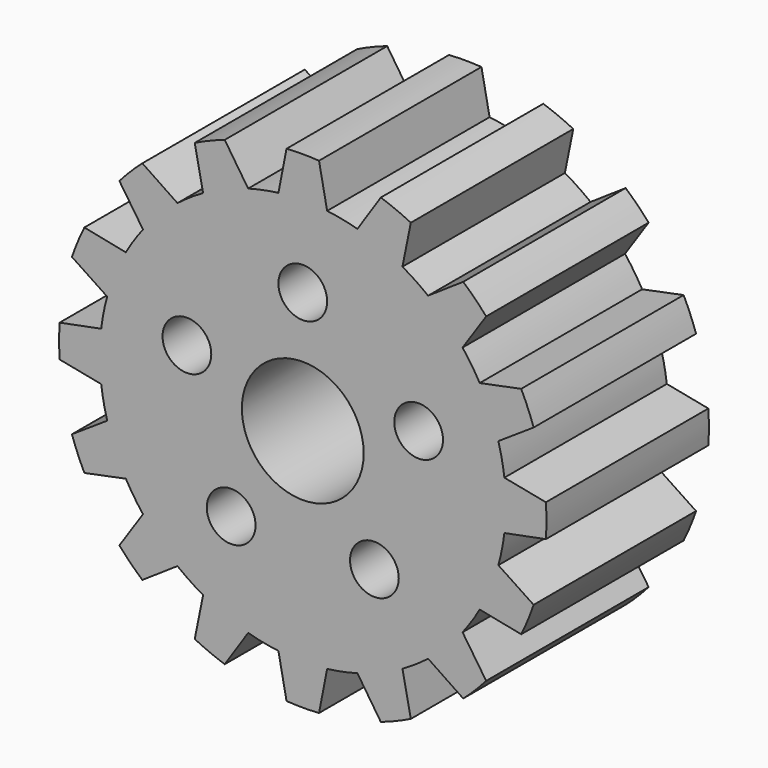
from build123d import *

# Parameters (mm, degrees)
F0_R     = 3
F0_R_2   = 7.5
F1_DEPTH = 25


with BuildPart() as f1:
    # F0 (on Front) → F1 (new body)
    with BuildSketch(Plane.XZ):
        with BuildLine():
            ThreePointArc((24.819347, -3), (24.954796, -1.502717), (25, 0))
            ThreePointArc((25, 0), (24.954796, 1.502717), (24.819347, 3))
            ThreePointArc((24.819347, 3), (24.519632, 4.877258), (24.078137, 6.726314))
            ThreePointArc((24.078137, 6.726314), (23.096988, 9.567086), (21.782037, 12.269592))
            ThreePointArc((21.782037, 12.269592), (20.78674, 13.889256), (19.671249, 15.428608))
            ThreePointArc((19.671249, 15.428608), (17.67767, 17.67767), (15.428608, 19.671249))
            ThreePointArc((15.428608, 19.671249), (13.889256, 20.78674), (12.269592, 21.782037))
            ThreePointArc((12.269592, 21.782037), (9.567086, 23.096988), (6.726314, 24.078137))
            ThreePointArc((6.726314, 24.078137), (4.877258, 24.519632), (3, 24.819347))
            ThreePointArc((3, 24.819347), (0, 25), (-3, 24.819347))
            ThreePointArc((-3, 24.819347), (-4.877258, 24.519632), (-6.726314, 24.078137))
            ThreePointArc((-6.726314, 24.078137), (-9.567086, 23.096988), (-12.269592, 21.782037))
            ThreePointArc((-12.269592, 21.782037), (-13.889256, 20.78674), (-15.428608, 19.671249))
            ThreePointArc((-15.428608, 19.671249), (-17.67767, 17.67767), (-19.671249, 15.428608))
            ThreePointArc((-19.671249, 15.428608), (-20.78674, 13.889256), (-21.782037, 12.269592))
            ThreePointArc((-21.782037, 12.269592), (-23.096988, 9.567086), (-24.078137, 6.726314))
            ThreePointArc((-24.078137, 6.726314), (-24.519632, 4.877258), (-24.819347, 3))
            ThreePointArc((-24.819347, 3), (-25, 0), (-24.819347, -3))
            ThreePointArc((-24.819347, -3), (-24.519632, -4.877258), (-24.078137, -6.726314))
            ThreePointArc((-24.078137, -6.726314), (-23.096988, -9.567086), (-21.782037, -12.269592))
            ThreePointArc((-21.782037, -12.269592), (-20.78674, -13.889256), (-19.671249, -15.428608))
            ThreePointArc((-19.671249, -15.428608), (-17.67767, -17.67767), (-15.428608, -19.671249))
            ThreePointArc((-15.428608, -19.671249), (-13.889256, -20.78674), (-12.269592, -21.782037))
            ThreePointArc((-12.269592, -21.782037), (-9.567086, -23.096988), (-6.726314, -24.078137))
            ThreePointArc((-6.726314, -24.078137), (-4.877258, -24.519632), (-3, -24.819347))
            ThreePointArc((-3, -24.819347), (0, -25), (3, -24.819347))
            ThreePointArc((3, -24.819347), (4.877258, -24.519632), (6.726314, -24.078137))
            ThreePointArc((6.726314, -24.078137), (9.567086, -23.096988), (12.269592, -21.782037))
            ThreePointArc((12.269592, -21.782037), (13.889256, -20.78674), (15.428608, -19.671249))
            ThreePointArc((15.428608, -19.671249), (17.67767, -17.67767), (19.671249, -15.428608))
            ThreePointArc((19.671249, -15.428608), (20.78674, -13.889256), (21.782037, -12.269592))
            ThreePointArc((21.782037, -12.269592), (23.096988, -9.567086), (24.078137, -6.726314))
            ThreePointArc((24.078137, -6.726314), (24.519632, -4.877258), (24.819347, -3))
        make_face()
        with Locations((-8.816779, -12.135255)):
            Circle(F0_R, mode=Mode.SUBTRACT)
        with Locations((8.816779, -12.135255)):
            Circle(F0_R, mode=Mode.SUBTRACT)
        with Locations((-14.265848, 4.635255)):
            Circle(F0_R, mode=Mode.SUBTRACT)
        Circle(F0_R_2, mode=Mode.SUBTRACT)
        with Locations((14.265848, 4.635255)):
            Circle(F0_R, mode=Mode.SUBTRACT)
        with Locations((0, 15)):
            Circle(F0_R, mode=Mode.SUBTRACT)
        with BuildLine():
            ThreePointArc((24.819347, 3), (24.954796, 1.502717), (25, 0))
            ThreePointArc((25, 0), (24.954796, -1.502717), (24.819347, -3))
            Line((24.819347, -3), (29.933259, -2))
            ThreePointArc((29.933259, -2), (30, 0), (29.933259, 2))
            Line((29.933259, 2), (24.819347, 3))
        make_face()
        with BuildLine():
            ThreePointArc((21.782037, 12.269592), (23.096988, 9.567086), (24.078137, 6.726314))
            Line((24.078137, 6.726314), (28.420092, 9.607203))
            ThreePointArc((28.420092, 9.607203), (27.716386, 11.480503), (26.889359, 13.302721))
            Line((26.889359, 13.302721), (21.782037, 12.269592))
        make_face()
        with BuildLine():
            Line((28.420092, -9.607203), (24.078137, -6.726314))
            ThreePointArc((24.078137, -6.726314), (23.096988, -9.567086), (21.782037, -12.269592))
            Line((21.782037, -12.269592), (26.889359, -13.302721))
            ThreePointArc((26.889359, -13.302721), (27.716386, -11.480503), (28.420092, -9.607203))
        make_face()
        with BuildLine():
            ThreePointArc((15.428608, 19.671249), (17.67767, 17.67767), (19.671249, 15.428608))
            Line((19.671249, 15.428608), (22.580224, 19.751797))
            ThreePointArc((22.580224, 19.751797), (21.213203, 21.213203), (19.751797, 22.580224))
            Line((19.751797, 22.580224), (15.428608, 19.671249))
        make_face()
        with BuildLine():
            Line((22.580224, -19.751797), (19.671249, -15.428608))
            ThreePointArc((19.671249, -15.428608), (17.67767, -17.67767), (15.428608, -19.671249))
            Line((15.428608, -19.671249), (19.751797, -22.580224))
            ThreePointArc((19.751797, -22.580224), (21.213203, -21.213203), (22.580224, -19.751797))
        make_face()
        with BuildLine():
            ThreePointArc((6.726314, 24.078137), (9.567086, 23.096988), (12.269592, 21.782037))
            Line((12.269592, 21.782037), (13.302721, 26.889359))
            ThreePointArc((13.302721, 26.889359), (11.480503, 27.716386), (9.607203, 28.420092))
            Line((9.607203, 28.420092), (6.726314, 24.078137))
        make_face()
        with BuildLine():
            Line((13.302721, -26.889359), (12.269592, -21.782037))
            ThreePointArc((12.269592, -21.782037), (9.567086, -23.096988), (6.726314, -24.078137))
            Line((6.726314, -24.078137), (9.607203, -28.420092))
            ThreePointArc((9.607203, -28.420092), (11.480503, -27.716386), (13.302721, -26.889359))
        make_face()
        with BuildLine():
            ThreePointArc((-3, 24.819347), (0, 25), (3, 24.819347))
            Line((3, 24.819347), (2, 29.933259))
            ThreePointArc((2, 29.933259), (0, 30), (-2, 29.933259))
            Line((-2, 29.933259), (-3, 24.819347))
        make_face()
        with BuildLine():
            Line((2, -29.933259), (3, -24.819347))
            ThreePointArc((3, -24.819347), (0, -25), (-3, -24.819347))
            Line((-3, -24.819347), (-2, -29.933259))
            ThreePointArc((-2, -29.933259), (0, -30), (2, -29.933259))
        make_face()
        with BuildLine():
            ThreePointArc((-12.269592, 21.782037), (-9.567086, 23.096988), (-6.726314, 24.078137))
            Line((-6.726314, 24.078137), (-9.607203, 28.420092))
            ThreePointArc((-9.607203, 28.420092), (-11.480503, 27.716386), (-13.302721, 26.889359))
            Line((-13.302721, 26.889359), (-12.269592, 21.782037))
        make_face()
        with BuildLine():
            Line((-9.607203, -28.420092), (-6.726314, -24.078137))
            ThreePointArc((-6.726314, -24.078137), (-9.567086, -23.096988), (-12.269592, -21.782037))
            Line((-12.269592, -21.782037), (-13.302721, -26.889359))
            ThreePointArc((-13.302721, -26.889359), (-11.480503, -27.716386), (-9.607203, -28.420092))
        make_face()
        with BuildLine():
            ThreePointArc((-19.671249, 15.428608), (-17.67767, 17.67767), (-15.428608, 19.671249))
            Line((-15.428608, 19.671249), (-19.751797, 22.580224))
            ThreePointArc((-19.751797, 22.580224), (-21.213203, 21.213203), (-22.580224, 19.751797))
            Line((-22.580224, 19.751797), (-19.671249, 15.428608))
        make_face()
        with BuildLine():
            Line((-19.751797, -22.580224), (-15.428608, -19.671249))
            ThreePointArc((-15.428608, -19.671249), (-17.67767, -17.67767), (-19.671249, -15.428608))
            Line((-19.671249, -15.428608), (-22.580224, -19.751797))
            ThreePointArc((-22.580224, -19.751797), (-21.213203, -21.213203), (-19.751797, -22.580224))
        make_face()
        with BuildLine():
            ThreePointArc((-24.078137, 6.726314), (-23.096988, 9.567086), (-21.782037, 12.269592))
            Line((-21.782037, 12.269592), (-26.889359, 13.302721))
            ThreePointArc((-26.889359, 13.302721), (-27.716386, 11.480503), (-28.420092, 9.607203))
            Line((-28.420092, 9.607203), (-24.078137, 6.726314))
        make_face()
        with BuildLine():
            Line((-26.889359, -13.302721), (-21.782037, -12.269592))
            ThreePointArc((-21.782037, -12.269592), (-23.096988, -9.567086), (-24.078137, -6.726314))
            Line((-24.078137, -6.726314), (-28.420092, -9.607203))
            ThreePointArc((-28.420092, -9.607203), (-27.716386, -11.480503), (-26.889359, -13.302721))
        make_face()
        with BuildLine():
            ThreePointArc((-24.819347, -3), (-25, 0), (-24.819347, 3))
            Line((-24.819347, 3), (-29.933259, 2))
            ThreePointArc((-29.933259, 2), (-30, 0), (-29.933259, -2))
            Line((-29.933259, -2), (-24.819347, -3))
        make_face()
        with BuildLine():
            ThreePointArc((24.819347, -3), (24.954796, -1.502717), (25, 0))
            ThreePointArc((25, 0), (24.954796, 1.502717), (24.819347, 3))
            ThreePointArc((24.819347, 3), (24.519632, 4.877258), (24.078137, 6.726314))
            ThreePointArc((24.078137, 6.726314), (23.096988, 9.567086), (21.782037, 12.269592))
            ThreePointArc((21.782037, 12.269592), (20.78674, 13.889256), (19.671249, 15.428608))
            ThreePointArc((19.671249, 15.428608), (17.67767, 17.67767), (15.428608, 19.671249))
            ThreePointArc((15.428608, 19.671249), (13.889256, 20.78674), (12.269592, 21.782037))
            ThreePointArc((12.269592, 21.782037), (9.567086, 23.096988), (6.726314, 24.078137))
            ThreePointArc((6.726314, 24.078137), (4.877258, 24.519632), (3, 24.819347))
            ThreePointArc((3, 24.819347), (0, 25), (-3, 24.819347))
            ThreePointArc((-3, 24.819347), (-4.877258, 24.519632), (-6.726314, 24.078137))
            ThreePointArc((-6.726314, 24.078137), (-9.567086, 23.096988), (-12.269592, 21.782037))
            ThreePointArc((-12.269592, 21.782037), (-13.889256, 20.78674), (-15.428608, 19.671249))
            ThreePointArc((-15.428608, 19.671249), (-17.67767, 17.67767), (-19.671249, 15.428608))
            ThreePointArc((-19.671249, 15.428608), (-20.78674, 13.889256), (-21.782037, 12.269592))
            ThreePointArc((-21.782037, 12.269592), (-23.096988, 9.567086), (-24.078137, 6.726314))
            ThreePointArc((-24.078137, 6.726314), (-24.519632, 4.877258), (-24.819347, 3))
            ThreePointArc((-24.819347, 3), (-25, 0), (-24.819347, -3))
            ThreePointArc((-24.819347, -3), (-24.519632, -4.877258), (-24.078137, -6.726314))
            ThreePointArc((-24.078137, -6.726314), (-23.096988, -9.567086), (-21.782037, -12.269592))
            ThreePointArc((-21.782037, -12.269592), (-20.78674, -13.889256), (-19.671249, -15.428608))
            ThreePointArc((-19.671249, -15.428608), (-17.67767, -17.67767), (-15.428608, -19.671249))
            ThreePointArc((-15.428608, -19.671249), (-13.889256, -20.78674), (-12.269592, -21.782037))
            ThreePointArc((-12.269592, -21.782037), (-9.567086, -23.096988), (-6.726314, -24.078137))
            ThreePointArc((-6.726314, -24.078137), (-4.877258, -24.519632), (-3, -24.819347))
            ThreePointArc((-3, -24.819347), (0, -25), (3, -24.819347))
            ThreePointArc((3, -24.819347), (4.877258, -24.519632), (6.726314, -24.078137))
            ThreePointArc((6.726314, -24.078137), (9.567086, -23.096988), (12.269592, -21.782037))
            ThreePointArc((12.269592, -21.782037), (13.889256, -20.78674), (15.428608, -19.671249))
            ThreePointArc((15.428608, -19.671249), (17.67767, -17.67767), (19.671249, -15.428608))
            ThreePointArc((19.671249, -15.428608), (20.78674, -13.889256), (21.782037, -12.269592))
            ThreePointArc((21.782037, -12.269592), (23.096988, -9.567086), (24.078137, -6.726314))
            ThreePointArc((24.078137, -6.726314), (24.519632, -4.877258), (24.819347, -3))
        make_face()
        with Locations((-8.816779, -12.135255)):
            Circle(F0_R, mode=Mode.SUBTRACT)
        with Locations((8.816779, -12.135255)):
            Circle(F0_R, mode=Mode.SUBTRACT)
        with Locations((-14.265848, 4.635255)):
            Circle(F0_R, mode=Mode.SUBTRACT)
        Circle(F0_R_2, mode=Mode.SUBTRACT)
        with Locations((14.265848, 4.635255)):
            Circle(F0_R, mode=Mode.SUBTRACT)
        with Locations((0, 15)):
            Circle(F0_R, mode=Mode.SUBTRACT)
    extrude(amount=F1_DEPTH)


solid = f1.part
